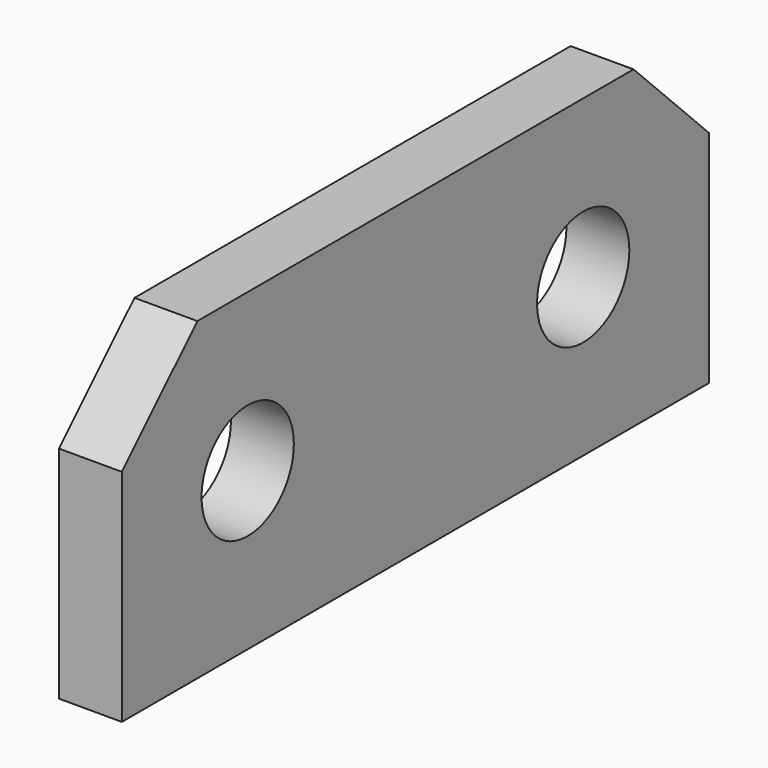
from build123d import *

# Parameters (mm, degrees)
SKETCH_R  = 5.5
PAD_DEPTH = 6


with BuildPart() as part:
    # Sketch → Pad (new body)
    with BuildSketch(Plane.YZ):
        Polygon((-26, 35.5), (26, 35.5), (35, 26.5), (35, 5.5), (-35, 5.5), (-35, 26.5), align=None)
        with Locations((-20, 20.5)):
            Circle(SKETCH_R, mode=Mode.SUBTRACT)
        with Locations((20, 20.5)):
            Circle(SKETCH_R, mode=Mode.SUBTRACT)
    extrude(amount=PAD_DEPTH)


solid = part.part
